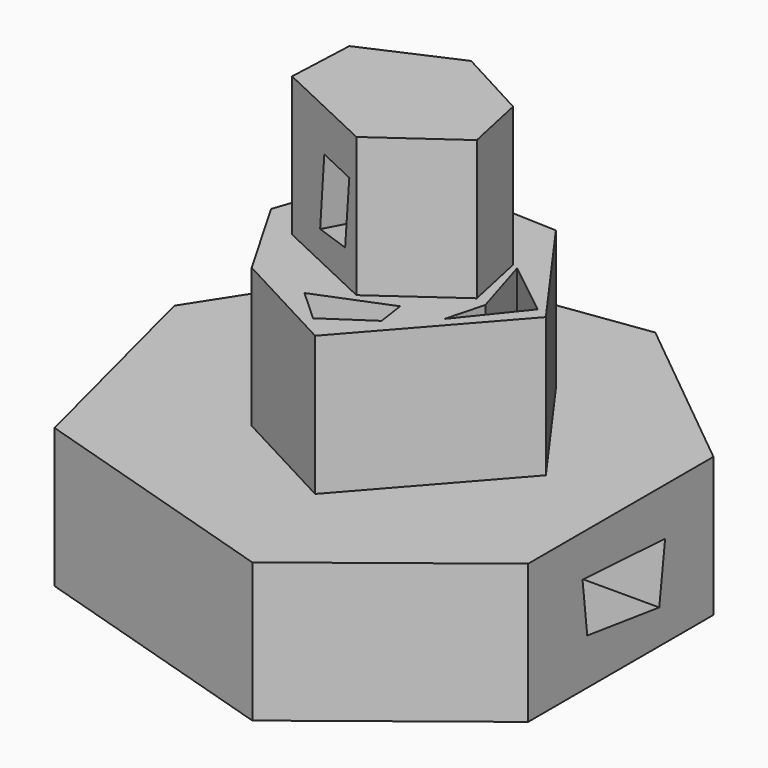
from build123d import *

# Parameters (mm, degrees)
PAD_DEPTH       = 20
PAD001_DEPTH    = 20
PAD002_DEPTH    = 20
POCKET_DEPTH    = 5
POCKET001_DEPTH = 40.001
POCKET002_DEPTH = 61.885198
POCKET003_DEPTH = 70.128117


with BuildPart() as part:
    # Sketch → Pad (new body)
    with BuildSketch(Plane.XY):
        Polygon((-17.796612, 26.271189), (12.711864, 30.508476), (36.652542, 11.016947), (36.652542, -22.245762), (12.288136, -41.31356), (-25.423729, -29.661018), (-33.474575, 1.906782), align=None)
    extrude(amount=PAD_DEPTH)

    # Sketch001 (on Face9 of Pad) → Pad001 (join)
    with BuildSketch(Plane.XY.offset(20)):
        Polygon((-8.474573, -15.466103), (-15.677964, -2.966103), (-9.957623, 13.771189), (12.499998, 12.923729), (24.788139, -4.237288), (7.415263, -23.94068), align=None)
    extrude(amount=PAD001_DEPTH)

    # Sketch002 (on Face16 of Pad001) → Pad002 (join)
    with BuildSketch(Plane.XY.offset(40)):
        Polygon((4.872886, -13.347459), (-9.957623, -6.355932), (-9.533896, 3.389829), (3.389833, 9.11017), (13.983051, 3.389829), (15.889828, -5.508473), align=None)
    extrude(amount=PAD002_DEPTH)

    # Sketch003 (on Face16 of Pad002) → Pocket (cut)
    with BuildSketch(Plane.XY.offset(40)):
        Polygon((4.57688, -20.765705), (0, -16.579855), (10.390564, -12.394002), (10.971933, -16.463581), align=None)
    extrude(amount=-POCKET_DEPTH, mode=Mode.SUBTRACT)

    # Sketch004 (on Face16 of Pocket) → Pocket001 (cut, through all)
    with BuildSketch(Plane.XY.offset(40)):
        Polygon((17.64828, -6.177723), (14.857347, 3.009472), (22.888026, -3.350244), (16.187607, -11.682368), align=None)
    extrude(amount=-POCKET001_DEPTH, mode=Mode.SUBTRACT)

    # Sketch005 (on Face28 of Pocket001) → Pocket002 (cut, through all)
    with BuildSketch(Plane(origin=(4.574148, 8.47064, 0), x_dir=(-0.879905, 0.475149, 0), z_dir=(0.475149, 0.879905, 0))):
        Polygon((-8.814835, 53.992447), (-7.755517, 44.67041), (-1.399587, 44.034817), (-2.458905, 53.992447), align=None)
    extrude(amount=-POCKET002_DEPTH, mode=Mode.SUBTRACT)

    # Sketch006 (on Face7 of Pocket002) → Pocket003 (cut, through all)
    with BuildSketch(Plane.YZ.offset(36.652542)):
        Polygon((-11.636175, 6.603847), (-12.483627, 14.019101), (2.346878, 13.171643), (1.28756, 4.908932), align=None)
    extrude(amount=-POCKET003_DEPTH, mode=Mode.SUBTRACT)


solid = part.part
